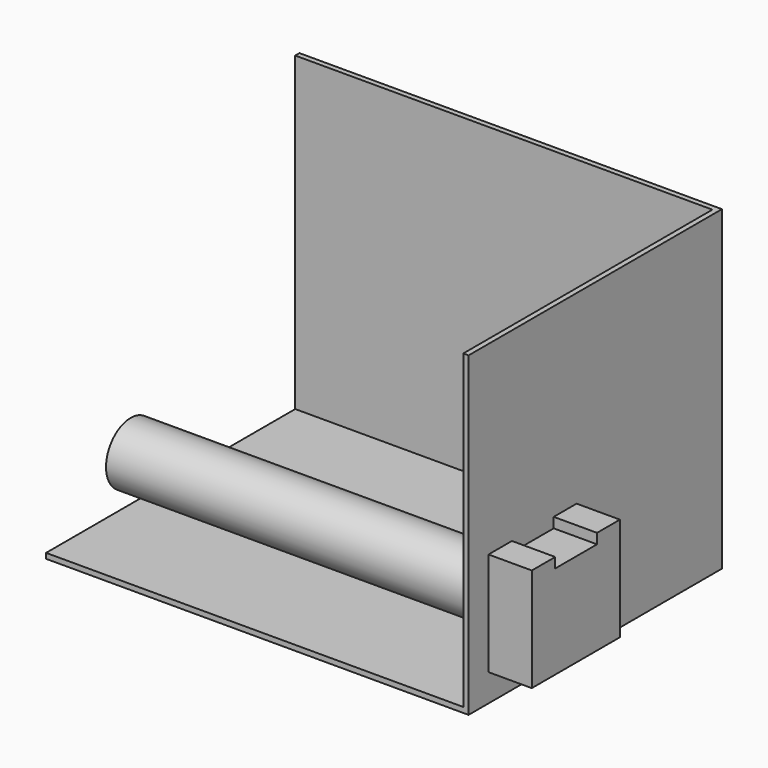
from build123d import *

# Parameters (mm, degrees)
F0_W     = 152.3237526417
F0_H     = 152.2235125303
F1_DEPTH = 203.2
F3_DEPTH = 20.828
F4_T     = -2.54
F5_R     = 14.8045645705
F6_DEPTH = 190.5


with BuildPart() as f1:
    # F0 (on Right) → F1 (new body)
    with BuildSketch(Plane.YZ):
        Rectangle(F0_W, F0_H)
    extrude(amount=-F1_DEPTH)

    # F2 (on face) → F3 (join)
    with BuildSketch(Plane.YZ):
        Polygon((-64.1746893525, -13.0571881309), (-64.1746893525, -62.878228724), (-11.205105111, -62.878228724), (-11.205105111, -13.0571881309), (-24.9650161713, -13.0571881309), (-24.9650161713, -17.9264117032), (-50.0936061144, -17.9264117032), (-50.0936061144, -13.0571881309), align=None)
    extrude(amount=F3_DEPTH)

    # F4
    f4_openings = [f1.faces().sort_by_distance(p)[0] for p in [
        (-101.6, -76.161876, 0),
        (-101.6, 0, 76.111756),
        (-203.2, 0, 0),
    ]]
    offset(amount=F4_T, openings=f4_openings, kind=Kind.INTERSECTION)


with BuildPart() as f6:
    # F5 (on face) → F6 (new body)
    with BuildSketch(Plane(origin=(-2.54, 0, 0), x_dir=(0, -1, 0), z_dir=(-1, 0, 0))):
        with Locations((38.0085924748, -43.4158226097)):
            Circle(F5_R)
    extrude(amount=F6_DEPTH)


solid = Compound([f1.part, f6.part])
